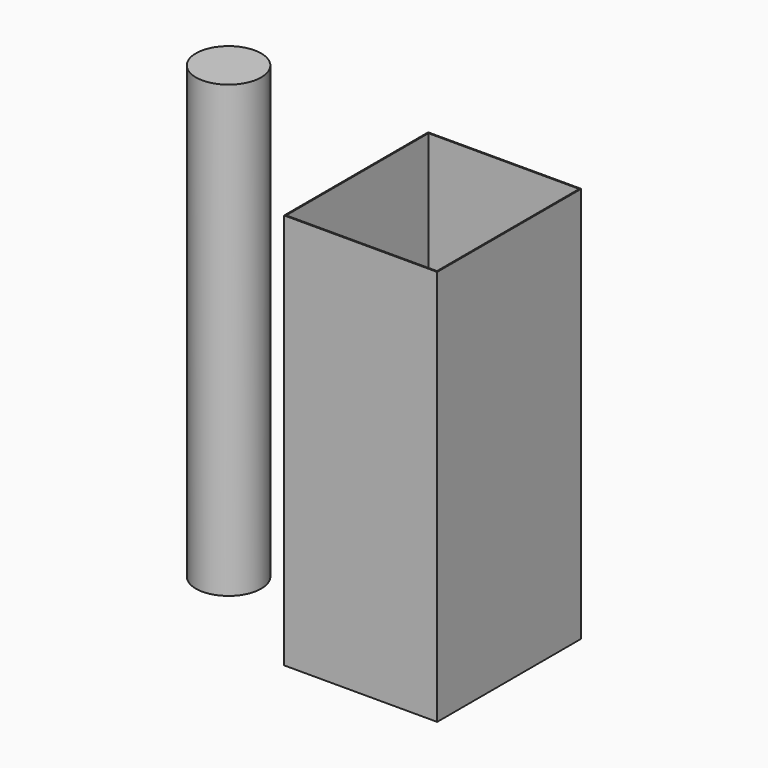
from build123d import *

# Parameters (mm, degrees)
F0_W     = 340
F0_H     = 400
F1_DEPTH = 880
F2_T     = -2.5
F3_R     = 72.5
F4_DEPTH = 1000


with BuildPart() as f1:
    # F0 (on Top) → F1 (new body)
    with BuildSketch(Plane.XY):
        Rectangle(F0_W, F0_H)
    extrude(amount=F1_DEPTH)

    # F2
    f2_openings = [f1.faces().sort_by_distance(p)[0] for p in [
        (0, 0, 880),
    ]]
    offset(amount=F2_T, openings=f2_openings)


with BuildPart() as f4:
    # F3 (on face) → F4 (new body)
    with BuildSketch(Plane.XY):
        with Locations((-453.514755, 0)):
            Circle(F3_R)
    extrude(amount=F4_DEPTH)


solid = Compound([f1.part, f4.part])
